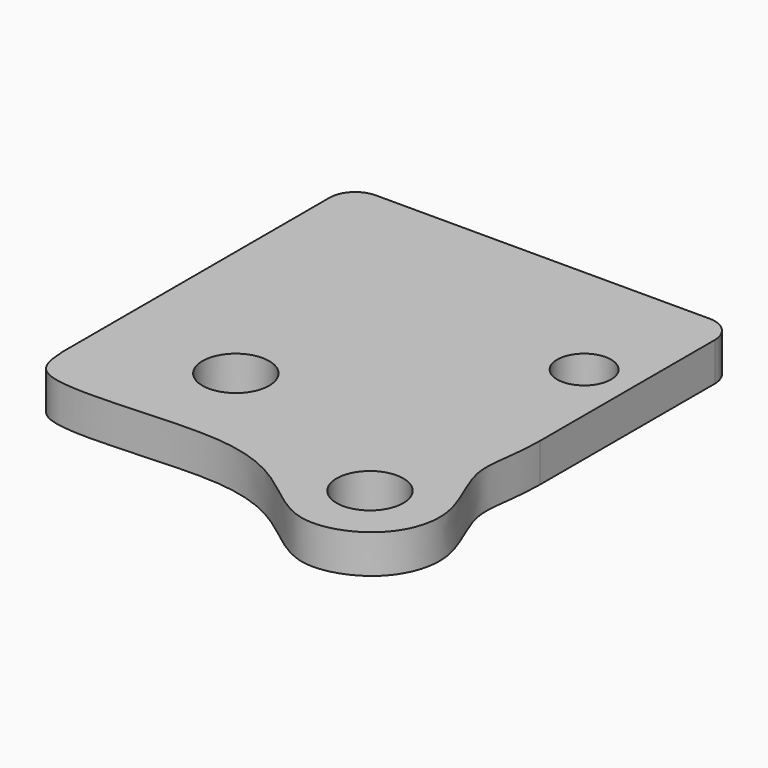
from build123d import *

# Parameters (mm, degrees)
F0_R     = 2.6
F0_R_2   = 2.1
F1_DEPTH = 3


with BuildPart() as f1:
    # F0 (on Top) → F1 (new body)
    with BuildSketch(Plane.XY):
        with BuildLine():
            Line((12.3479472026, 7.9058583081), (-13.6520527974, 7.9058583081))
            ThreePointArc((-13.6520527974, 7.9058583081), (-15.0662663598, 7.3200718704), (-15.6520527974, 5.9058583081))
            Line((-15.6520527974, 5.9058583081), (-15.6520527974, -20.0941416919))
            add(Edge.make_bspline(
                [(-15.6520527974, -20.0941416919), (-15.5751293037, -21.4033594279), (-15.2635781681, -24.5634502002), (-0.8787874809, -22.0988449664), (5.0756230648, -25.1076771756), (9.2072850265, -29.0327234408), (14.8289471052, -27.1474559823), (16.6930721896, -21.9723878023), (13.1588311211, -16.5555052211), (14.3295111489, -13.9155043625), (14.3479472026, -11.0878590494)],
                knots=[0, 0, 0, 0, 0.0914376173, 0.2762733003, 0.4129615686, 0.5284098194, 0.6427719716, 0.7555166389, 0.8762466025, 1, 1, 1, 1], degree=3))
            Line((14.3479472026, -11.0878590494), (14.3479472026, 5.9058583081))
            ThreePointArc((14.3479472026, 5.9058583081), (13.762160765, 7.3200718704), (12.3479472026, 7.9058583081))
        make_face()
        with Locations((-5.6520527974, -15.7183334231)):
            Circle(F0_R, mode=Mode.SUBTRACT)
        with Locations((10.3771137074, -22.6941416919)):
            Circle(F0_R, mode=Mode.SUBTRACT)
        with Locations((10.5747394032, -2.0941416919)):
            Circle(F0_R_2, mode=Mode.SUBTRACT)
    extrude(amount=F1_DEPTH)


solid = f1.part
